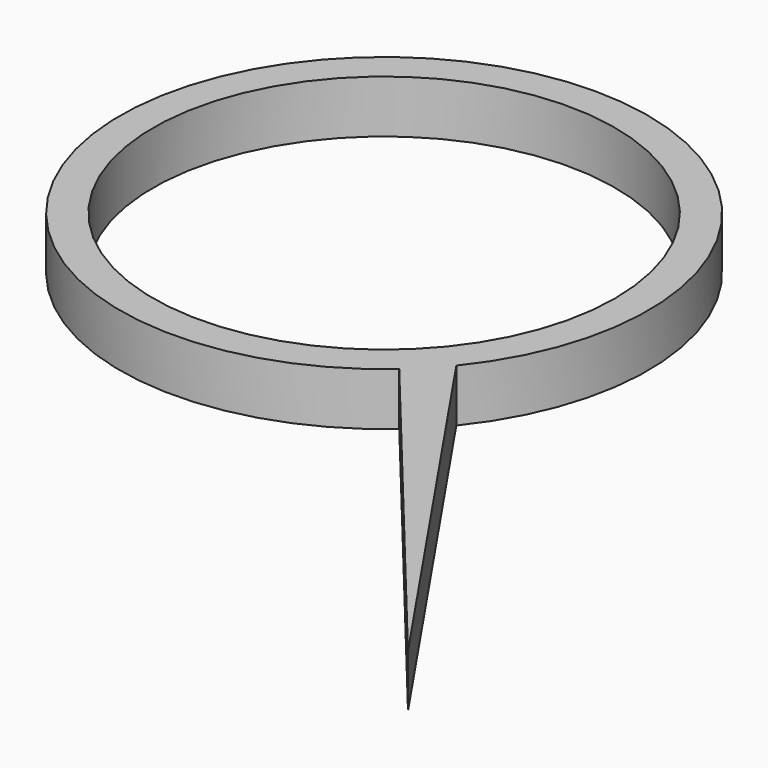
from build123d import *

# Parameters (mm, degrees)
F0_R     = 22.225
F1_DEPTH = 5.08


with BuildPart() as f1:
    # F0 (on Top) → F1 (new body)
    with BuildSketch(Plane.XY):
        with BuildLine():
            Line((45.916785, -54.526184), (19.737035, -15.987791))
            ThreePointArc((19.737035, -15.987791), (-18.304345, 17.609968), (16.73876, -19.104291))
            Line((16.73876, -19.104291), (45.916785, -54.526184))
        make_face()
        Circle(F0_R, mode=Mode.SUBTRACT)
    extrude(amount=F1_DEPTH)


solid = f1.part
